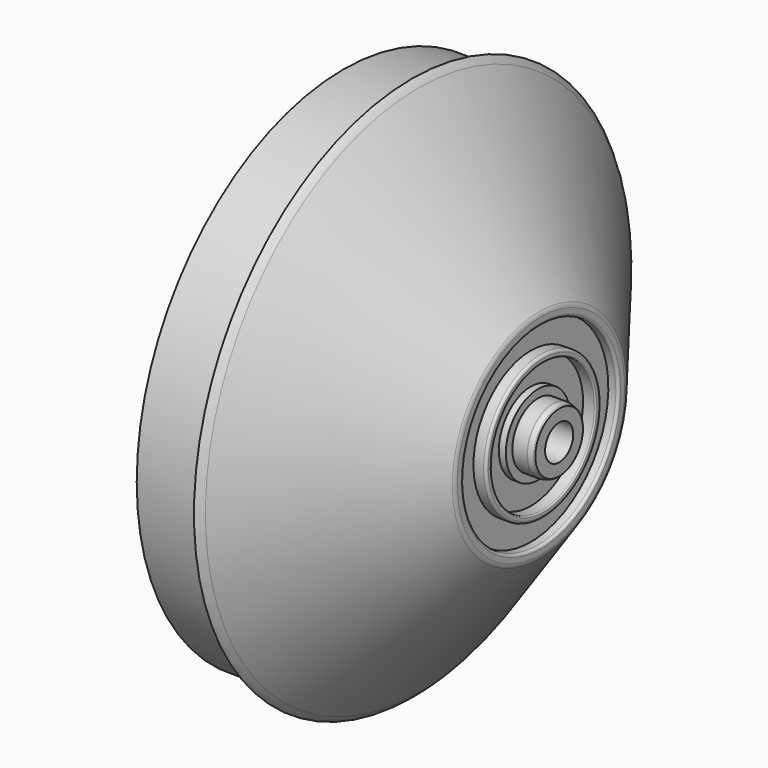
from build123d import *


with BuildPart() as f1:
    # F0 (on Front) → F1 (revolve)
    with BuildSketch(Plane.XZ):
        with BuildLine():
            Line((1.668421, 9.65036), (2.419171, 9.651342))
            ThreePointArc((2.419171, 9.651342), (2.598776, 9.725737), (2.673171, 9.905342))
            Line((2.673171, 9.905342), (2.673171, 10.428173))
            ThreePointArc((2.673171, 10.428173), (2.635929, 10.653114), (2.528177, 10.854049))
            Line((2.528177, 10.854049), (-9.539841, 26.522809))
            ThreePointArc((-9.539841, 26.522809), (-9.835489, 26.857267), (-10.184293, 27.135847))
            Line((-10.184293, 27.135847), (-10.184293, 25.730539))
            Line((-10.184293, 25.730539), (-17.014204, 25.730539))
            Line((-17.014204, 25.730539), (-17.014204, 25.247825))
            ThreePointArc((-17.014204, 25.247825), (-16.884386, 24.934417), (-16.570978, 24.804599))
            Line((-16.570978, 24.804599), (-10.493265, 24.804599))
            ThreePointArc((-10.493265, 24.804599), (-9.612523, 24.599801), (-8.912496, 24.027427))
            Line((-8.912496, 24.027427), (-0.077617, 12.571097))
            ThreePointArc((-0.077617, 12.571097), (0.447697, 11.592579), (0.629273, 10.496914))
            Line((0.629273, 10.496914), (0.629273, 0))
            Line((0.629273, 0), (0.790692, 0))
            Line((0.790692, 0), (1.578021, 0))
            Line((1.578021, 0), (1.651957, 1.751658))
            Line((1.651957, 1.751658), (4.488433, 1.751658))
            Line((4.488433, 1.751658), (4.488433, 2.965108))
            ThreePointArc((4.488433, 2.965108), (4.438242, 3.018415), (4.372109, 3.049836))
            Line((4.372109, 3.049836), (3.879268, 3.179662))
            ThreePointArc((3.879268, 3.179662), (3.859453, 3.184547), (3.83911, 3.18619))
            Line((3.83911, 3.18619), (2.371949, 3.18619))
            Line((2.371949, 3.18619), (2.371949, 3.998))
            Line((2.371949, 3.998), (1.672421, 3.998))
            Line((1.672421, 3.998), (1.672421, 6.492))
            Line((1.672421, 6.492), (2.801421, 6.492))
            ThreePointArc((2.801421, 6.492), (2.891224, 6.529197), (2.928421, 6.619))
            Line((2.928421, 6.619), (2.928421, 6.896))
            ThreePointArc((2.928421, 6.896), (2.854026, 7.075605), (2.674421, 7.15))
            Line((2.674421, 7.15), (1.668421, 7.15))
            Line((1.668421, 7.15), (1.668421, 9.65036))
        make_face()
    revolve(axis=Axis((1.184357, 0, 0), (-1, 0, 0)))


solid = f1.part
